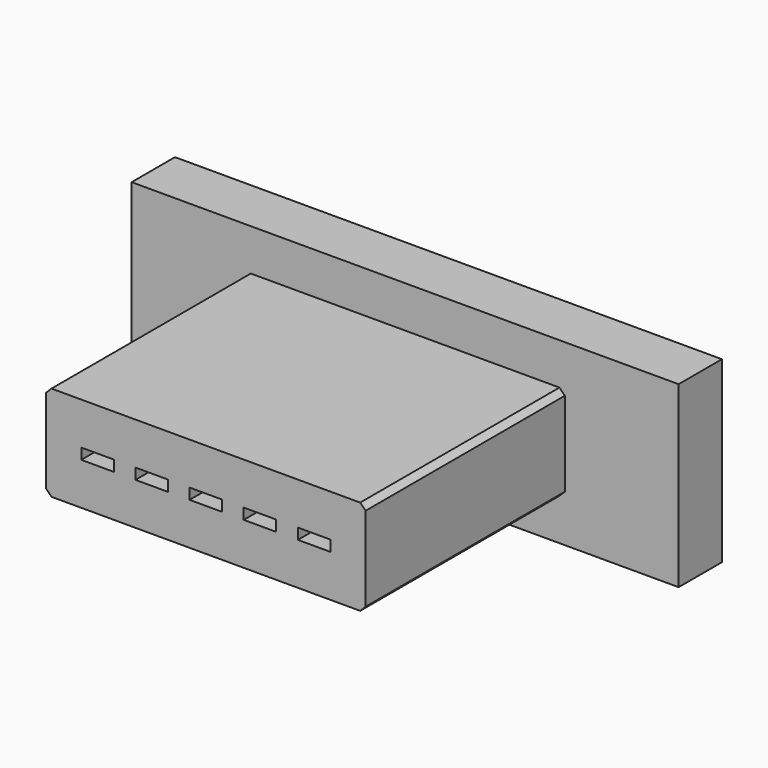
from build123d import *

# Parameters (mm, degrees)
F0_W     = 50.5
F0_H     = 16.5
F1_DEPTH = 5
F2_W     = 29.5
F2_H     = 8.8
F3_DEPTH = 23
F4_W     = 3
F4_H     = 1
F5_DEPTH = 28
F6_SIZE  = 0.5
F7_W     = 24.5
F7_H     = 5.5
F8_DEPTH = 23


with BuildPart() as f1:
    # F0 (on Front) → F1 (new body)
    with BuildSketch(Plane.XZ):
        with Locations((5.748162, 1.834772)):
            Rectangle(F0_W, F0_H)
    extrude(amount=F1_DEPTH)

    # F2 (on face) → F3 (join)
    with BuildSketch(Plane.XZ.offset(5)):
        with Locations((5.748162, 1.834772)):
            Rectangle(F2_W, F2_H)
    extrude(amount=F3_DEPTH)

    # F4 (on face) → F5 (cut)
    with BuildSketch(Plane.XZ.offset(28)):
        with Locations((-4.251838, 1.834772)):
            Rectangle(F4_W, F4_H)
        with Locations((0.748162, 1.834772)):
            Rectangle(F4_W, F4_H)
        with Locations((5.748162, 1.834772)):
            Rectangle(F4_W, F4_H)
        with Locations((10.748162, 1.834772)):
            Rectangle(F4_W, F4_H)
        with Locations((15.748162, 1.834772)):
            Rectangle(F4_W, F4_H)
    extrude(amount=-F5_DEPTH, mode=Mode.SUBTRACT)

    # F6
    f6_edges = [f1.edges().sort_by_distance(p)[0] for p in [
        (20.498162, -16.5, 6.234772),
        (-9.001838, -16.5, 6.234772),
        (20.498162, -16.5, -2.565228),
        (-9.001838, -16.5, -2.565228),
    ]]
    chamfer(f6_edges, length=F6_SIZE)

    # F7 (on face) → F8 (cut)
    with BuildSketch(Plane(origin=(0, 0, 0), x_dir=(-1, 0, 0), z_dir=(0, 1, 0))):
        with Locations((-5.748162, 1.834772)):
            Rectangle(F7_W, F7_H)
    extrude(amount=-F8_DEPTH, mode=Mode.SUBTRACT)


solid = f1.part
